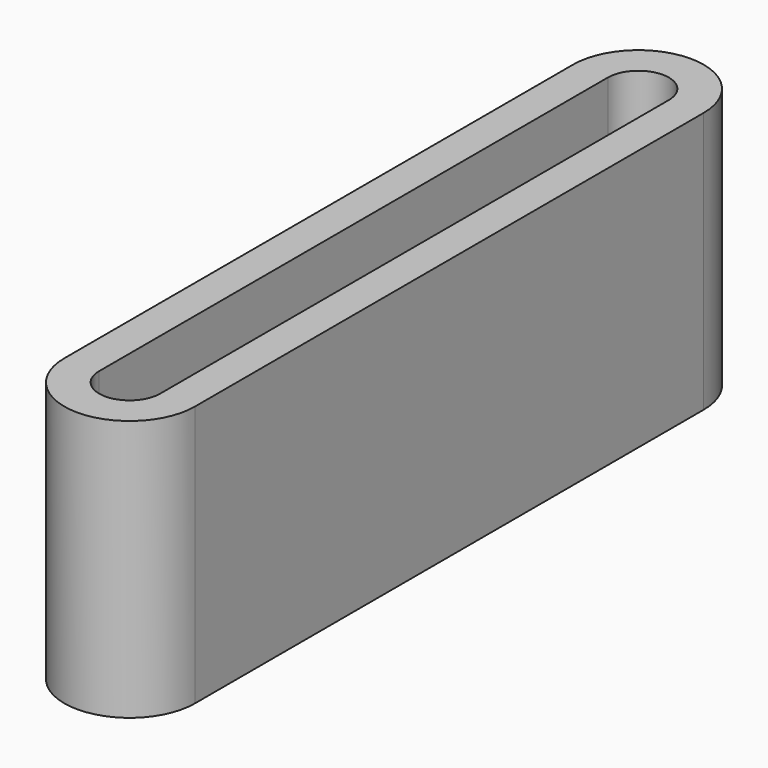
from build123d import *

# Parameters (mm, degrees)
F1_DEPTH = 15


with BuildPart() as f1:
    # F0 (on Top) → F1 (new body)
    with BuildSketch(Plane.XY):
        with BuildLine():
            ThreePointArc((3.75, 23.25), (0, 27), (-3.75, 23.25))
            Line((-3.75, 23.25), (-3.75, -13.25))
            ThreePointArc((-3.75, -13.25), (0, -17), (3.75, -13.25))
            Line((3.75, -13.25), (3.75, 23.25))
        make_face()
        with BuildLine():
            ThreePointArc((-1.75, 23.25), (0, 25), (1.75, 23.25))
            Line((1.75, 23.25), (1.75, -13.25))
            ThreePointArc((1.75, -13.25), (0, -15), (-1.75, -13.25))
            Line((-1.75, -13.25), (-1.75, 23.25))
        make_face(mode=Mode.SUBTRACT)
    extrude(amount=F1_DEPTH)


solid = f1.part
